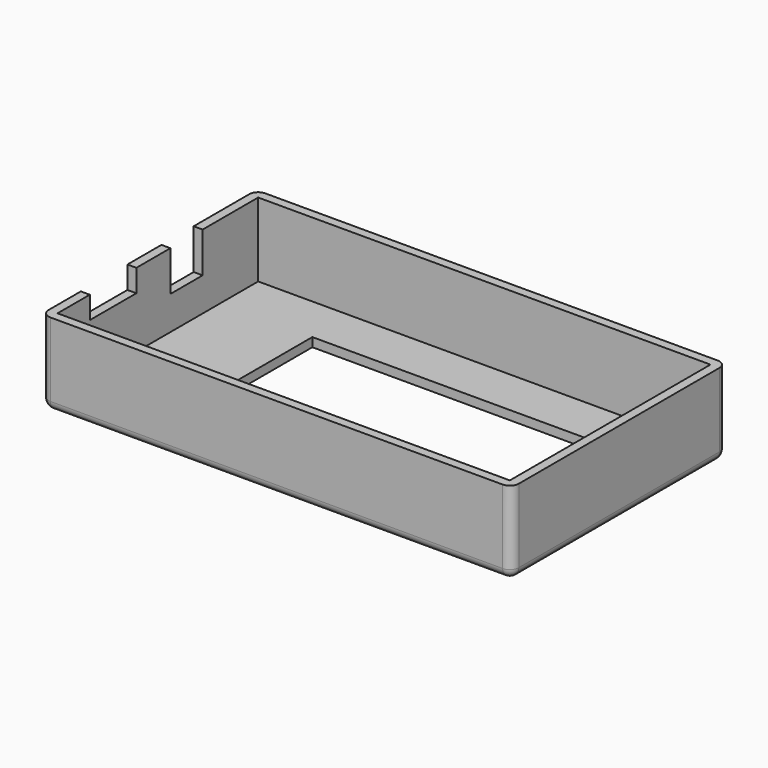
from build123d import *

# Parameters (mm, degrees)
F0_W     = 105
F0_H     = 60
F0_W_2   = 72
F0_H_2   = 25
F1_DEPTH = 2
F2_W     = 105
F2_H     = 60
F2_W_2   = 101
F2_H_2   = 56
F3_DEPTH = 16.5
F4_W     = 2
F4_H     = 9
F4_H_2   = 13
F5_DEPTH = 9
F6_R     = 2
F7_R     = 2
F8_W     = 2
F8_H     = 13
F9_DEPTH = 4


with BuildPart() as f1:
    # F0 (on Top) → F1 (new body)
    with BuildSketch(Plane.XY):
        Rectangle(F0_W, F0_H)
        with Locations((6, 5)):
            Rectangle(F0_W_2, F0_H_2, mode=Mode.SUBTRACT)
    extrude(amount=F1_DEPTH)

    # F2 (on face) → F3 (join)
    with BuildSketch(Plane.XY.offset(2)):
        Rectangle(F2_W, F2_H)
        Rectangle(F2_W_2, F2_H_2, mode=Mode.SUBTRACT)
    extrude(amount=F3_DEPTH)

    # F4 (on face) → F5 (cut)
    with BuildSketch(Plane.XY.offset(18.5)):
        with Locations((-51.5, 8)):
            Rectangle(F4_W, F4_H)
        with Locations((-51.5, -12.5)):
            Rectangle(F4_W, F4_H_2)
    extrude(amount=-F5_DEPTH, mode=Mode.SUBTRACT)

    # F6
    f6_edges = [f1.edges().sort_by_distance(p)[0] for p in [
        (52.5, -30, 9.25),
        (52.5, 30, 9.25),
        (-52.5, -30, 9.25),
        (-52.5, 30, 9.25),
    ]]
    fillet(f6_edges, radius=F6_R)

    # F7
    f7_edges = [f1.edges().sort_by_distance(p)[0] for p in [
        (52.5, 0, 0),
        (0, -30, 0),
        (0, 30, 0),
        (-52.5, 0, 0),
    ]]
    fillet(f7_edges, radius=F7_R)

    # F8 (on face) → F9 (join)
    with BuildSketch(Plane.XY.offset(9.5)):
        with Locations((-51.5, -12.5)):
            Rectangle(F8_W, F8_H)
    extrude(amount=F9_DEPTH)


solid = f1.part
